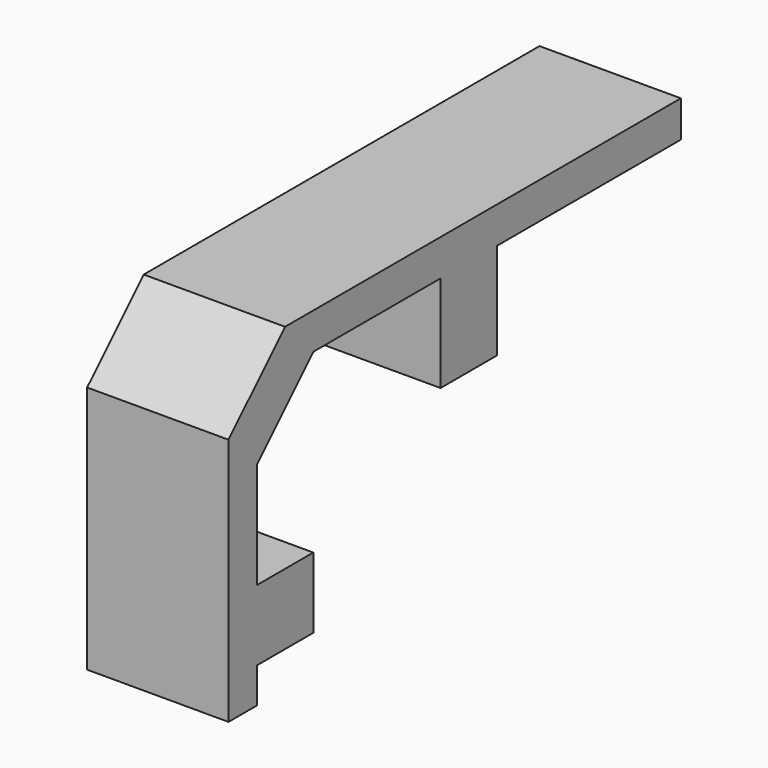
from build123d import *

# Parameters (mm, degrees)
F1_DEPTH = 4
F2_SIZE  = 2


with BuildPart() as f1:
    # F0 (on Right) → F1 (new body)
    with BuildSketch(Plane.YZ):
        Polygon((3.423077, 3.417989), (9.923077, 3.417989), (9.923077, 4.448239), (-6.076923, 4.448239), (-6.076923, -4.582011), (-5.076923, -4.582011), (-5.076923, -3.582011), (-3.076923, -3.582011), (-3.076923, -1.582011), (-5.076923, -1.582011), (-5.076923, 1.417989), (-3.076923, 3.417989), (1.423077, 3.417989), (1.423077, 0.685938), (3.423077, 0.685938), align=None)
    extrude(amount=F1_DEPTH)

    # F2
    f2_edges = [f1.edges().sort_by_distance(p)[0] for p in [
        (2, -6.076923, 4.448239),
    ]]
    chamfer(f2_edges, length=F2_SIZE)


solid = f1.part
